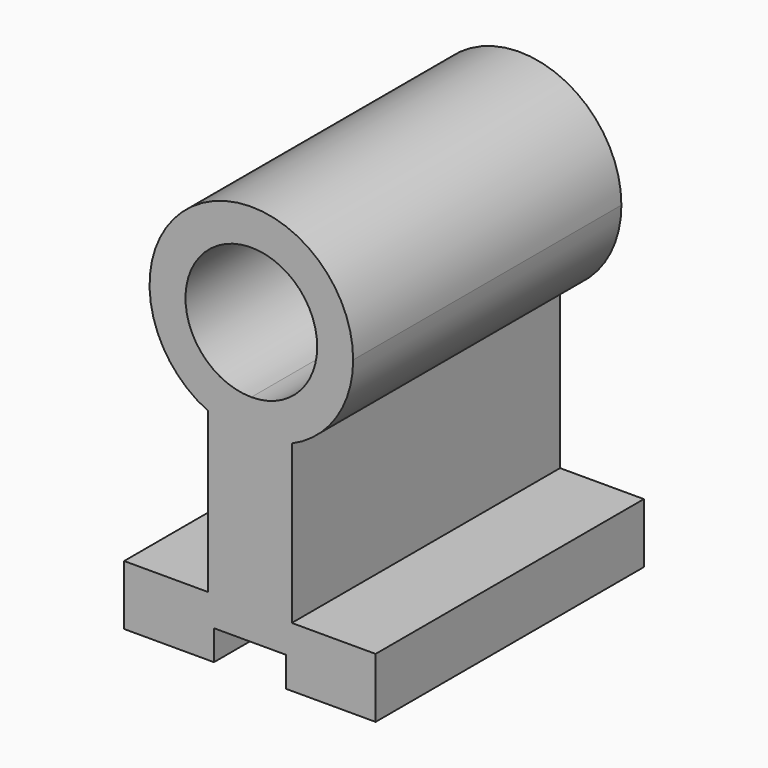
from build123d import *

# Parameters (mm, degrees)
F1_DEPTH = 56


with BuildPart() as f1:
    # F0 (on Front) → F1 (new body)
    with BuildSketch(Plane.XZ):
        with BuildLine():
            Line((0, 35), (0, 5))
            Line((0, 5), (5.754496, 5))
            Line((5.754496, 5), (5.754496, 0))
            Line((5.754496, 0), (20.754496, 0))
            Line((20.754496, 0), (20.754496, 10))
            Line((20.754496, 10), (6.754496, 10))
            Line((6.754496, 10), (6.754496, 36.399462))
            ThreePointArc((6.754496, 36.399462), (3.448975, 35.353542), (0, 35))
        make_face()
        with BuildLine():
            Line((-21.245504, 0), (-6.245504, 0))
            Line((-6.245504, 0), (-6.245504, 5))
            Line((-6.245504, 5), (0, 5))
            Line((0, 5), (0, 35))
            ThreePointArc((0, 35), (-3.712349, 35.41029), (-7.245504, 36.621357))
            Line((-7.245504, 36.621357), (-7.245504, 10))
            Line((-7.245504, 10), (-21.245504, 10))
            Line((-21.245504, 10), (-21.245504, 0))
        make_face()
        with BuildLine():
            ThreePointArc((-7.245504, 36.621357), (-3.712349, 35.41029), (0, 35))
            ThreePointArc((0, 35), (3.448975, 35.353542), (6.754496, 36.399462))
            ThreePointArc((6.754496, 36.399462), (14.209617, 42.66797), (17, 52))
            ThreePointArc((17, 52), (-9.105669, 66.355723), (-7.245504, 36.621357))
        make_face()
        with BuildLine():
            ThreePointArc((11, 52), (7.778175, 44.221825), (0, 41))
            ThreePointArc((0, 41), (-7.778175, 59.778175), (11, 52))
        make_face(mode=Mode.SUBTRACT)
    extrude(amount=F1_DEPTH)


solid = f1.part
